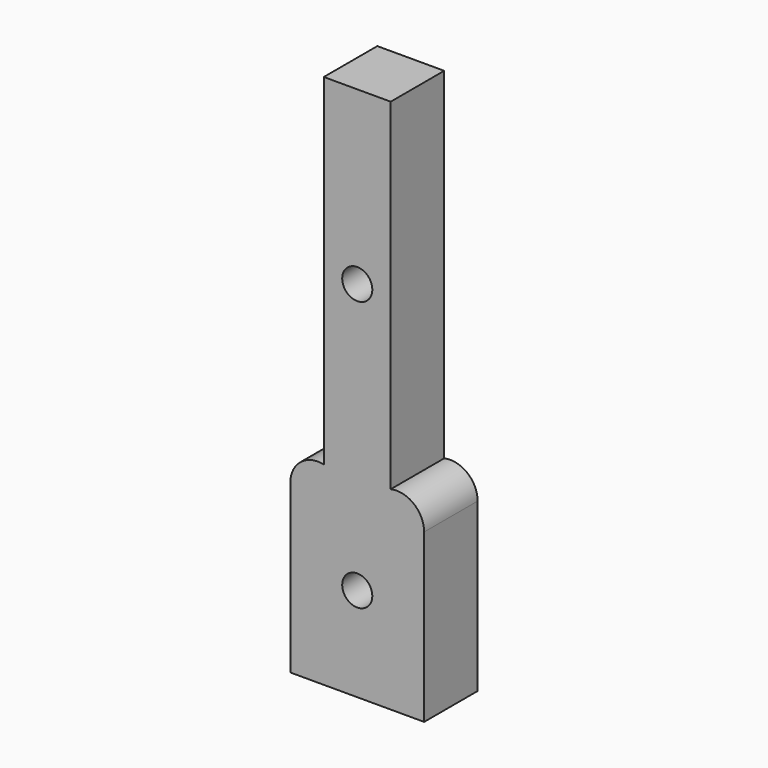
from build123d import *

# Parameters (mm, degrees)
F1_DEPTH       = 10
F2_D           = 4.5
F2_CSINK_D     = 8.96
F2_CSINK_ANGLE = 90


with BuildPart() as f1:
    # F0 (on Front) → F1 (new body)
    with BuildSketch(Plane.XZ):
        Polygon((5, -11), (5, 40), (-5, 40), (-5, -11), (-5, -40), (5, -40), (5, -15), align=None)
        with BuildLine():
            ThreePointArc((10, -15), (8.461249695, -11.7984378813), (5, -11))
            Line((5, -11), (5, -15))
            Line((5, -15), (5, -40))
            Line((5, -40), (10, -40))
            Line((10, -40), (10, -15))
        make_face()
        with BuildLine():
            Line((-5, -40), (-5, -11))
            ThreePointArc((-5, -11), (-8.461249695, -11.7984378813), (-10, -15))
            Line((-10, -15), (-10, -40))
            Line((-10, -40), (-5, -40))
        make_face()
    extrude(amount=F1_DEPTH)

    # F2 (through all)
    with Locations(Plane(origin=(0, 0, 0), x_dir=(1, 0, 0), z_dir=(0, 1, 0))):
        with Locations((0, -14.3716754392), (0, 25.9504150599)):
            CounterSinkHole(F2_D / 2, F2_CSINK_D / 2, counter_sink_angle=F2_CSINK_ANGLE)


solid = f1.part
